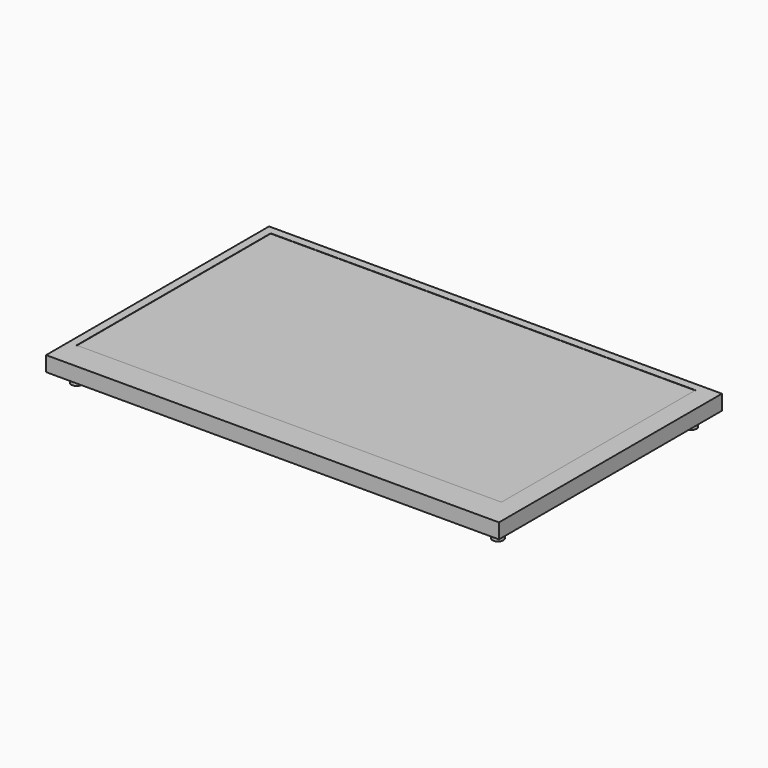
from build123d import *

# Parameters (mm, degrees)
F0_W     = 169
F0_H     = 104
F1_DEPTH = 5.6
F2_W     = 158.5
F2_H     = 90.5
F3_DEPTH = 0.1
F4_R     = 2
F4_R_2   = 1.5
F5_DEPTH = 4.4


with BuildPart() as f1:
    # F0 (on Top) → F1 (new body)
    with BuildSketch(Plane.XY):
        with Locations((84.5, 52)):
            Rectangle(F0_W, F0_H)
    extrude(amount=F1_DEPTH)

    # F2 (on face) → F3 (cut)
    with BuildSketch(Plane.XY.offset(5.6)):
        with Locations((82.35, 55.65)):
            Rectangle(F2_W, F2_H)
    extrude(amount=-F3_DEPTH, mode=Mode.SUBTRACT)

    # F4 (on face) → F5 (join)
    with BuildSketch(Plane(origin=(0, 0, 0), x_dir=(1, 0, 0), z_dir=(0, 0, -1))):
        with Locations((163.1, -97.1)):
            Circle(F4_R)
        with Locations((163.1, -97.1)):
            Circle(F4_R_2, mode=Mode.SUBTRACT)
        with Locations((5.9, -97.1)):
            Circle(F4_R)
        with Locations((5.9, -97.1)):
            Circle(F4_R_2, mode=Mode.SUBTRACT)
        with Locations((5.9, -6.9)):
            Circle(F4_R)
        with Locations((5.9, -6.9)):
            Circle(F4_R_2, mode=Mode.SUBTRACT)
        with Locations((163.1, -6.9)):
            Circle(F4_R)
        with Locations((163.1, -6.9)):
            Circle(F4_R_2, mode=Mode.SUBTRACT)
    extrude(amount=F5_DEPTH)


solid = f1.part
